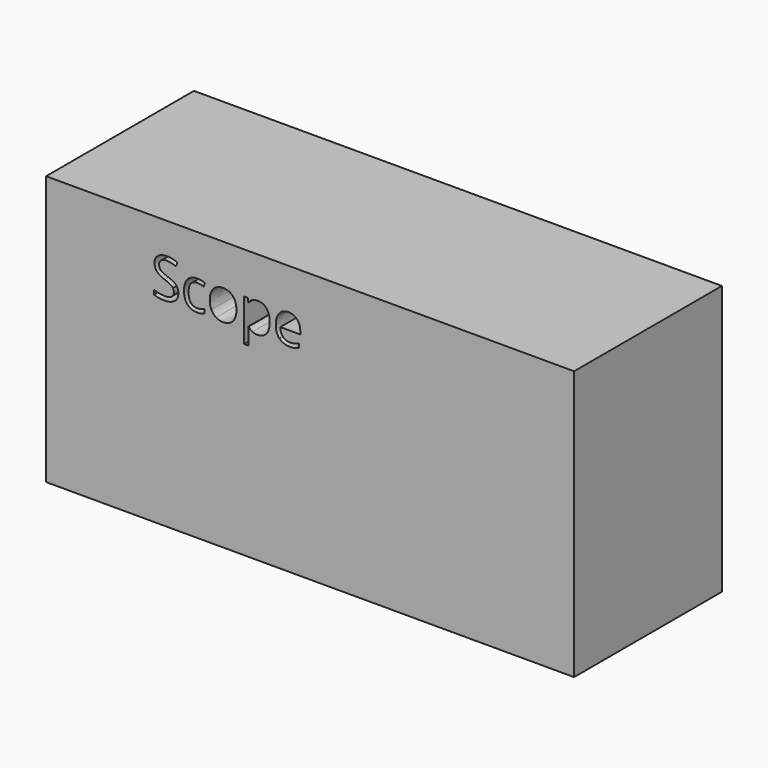
from build123d import *

# Parameters (mm, degrees)
F0_W     = 317.5
F0_H     = 161.925
F1_DEPTH = 111.125


with BuildPart() as f1:
    # F0 (on Front) → F1 (new body)
    with BuildSketch(Plane.XZ):
        with Locations((3.7857389202, 16.0671479534)):
            Rectangle(F0_W, F0_H)
        with BuildLine():
            add(Edge.make_bspline(
                [(-76.786822499, 64.7946904907), (-75.4122655757, 63.2979507297), (-75.4122655757, 60.9153853959)],
                knots=[0, 0, 0, 1, 1, 1], degree=2))
            add(Edge.make_bspline(
                [(-75.4122655757, 60.9153853959), (-75.4122655757, 57.8455416005), (-77.6395568867, 56.1247999705)],
                knots=[0, 0, 0, 1, 1, 1], degree=2))
            add(Edge.make_bspline(
                [(-77.6395568867, 56.1247999705), (-79.8668481976, 54.4040583405), (-83.6850618736, 54.4040583405)],
                knots=[0, 0, 0, 1, 1, 1], degree=2))
            add(Edge.make_bspline(
                [(-83.6850618736, 54.4040583405), (-87.8189145467, 54.4040583405), (-90.0487513335, 55.4731581698)],
                knots=[0, 0, 0, 1, 1, 1], degree=2))
            Line((-90.0487513335, 55.4731581698), (-90.0487513335, 58.0797253726))
            add(Edge.make_bspline(
                [(-90.0487513335, 58.0797253726), (-88.6131029913, 57.4789930876), (-86.9279980224, 57.1277174294)],
                knots=[0, 0, 0, 1, 1, 1], degree=2))
            add(Edge.make_bspline(
                [(-86.9279980224, 57.1277174294), (-85.2428930534, 56.7764417712), (-83.5883337938, 56.7764417712)],
                knots=[0, 0, 0, 1, 1, 1], degree=2))
            add(Edge.make_bspline(
                [(-83.5883337938, 56.7764417712), (-80.8850385112, 56.7764417712), (-79.5155725395, 57.8022685121)],
                knots=[0, 0, 0, 1, 1, 1], degree=2))
            add(Edge.make_bspline(
                [(-79.5155725395, 57.8022685121), (-78.1461065677, 58.8280952531), (-78.1461065677, 60.6608378175)],
                knots=[0, 0, 0, 1, 1, 1], degree=2))
            add(Edge.make_bspline(
                [(-78.1461065677, 60.6608378175), (-78.1461065677, 61.8673933391), (-78.6322924424, 62.6386725017)],
                knots=[0, 0, 0, 1, 1, 1], degree=2))
            add(Edge.make_bspline(
                [(-78.6322924424, 62.6386725017), (-79.1184783172, 63.4099516642), (-80.2563059926, 64.0641389407)],
                knots=[0, 0, 0, 1, 1, 1], degree=2))
            add(Edge.make_bspline(
                [(-80.2563059926, 64.0641389407), (-81.394133668, 64.7183262172), (-83.715607583, 65.5430603712)],
                knots=[0, 0, 0, 1, 1, 1], degree=2))
            add(Edge.make_bspline(
                [(-83.715607583, 65.5430603712), (-86.9585437318, 66.7037973287), (-88.3509189856, 68.2947196936)],
                knots=[0, 0, 0, 1, 1, 1], degree=2))
            add(Edge.make_bspline(
                [(-88.3509189856, 68.2947196936), (-89.7432942394, 69.8856420586), (-89.7432942394, 72.4463906973)],
                knots=[0, 0, 0, 1, 1, 1], degree=2))
            add(Edge.make_bspline(
                [(-89.7432942394, 72.4463906973), (-89.7432942394, 75.1344131251), (-87.7247319427, 76.7253354901)],
                knots=[0, 0, 0, 1, 1, 1], degree=2))
            add(Edge.make_bspline(
                [(-87.7247319427, 76.7253354901), (-85.7061696461, 78.3162578551), (-82.3766873206, 78.3162578551)],
                knots=[0, 0, 0, 1, 1, 1], degree=2))
            add(Edge.make_bspline(
                [(-82.3766873206, 78.3162578551), (-78.9097493029, 78.3162578551), (-75.997725006, 77.0435199631)],
                knots=[0, 0, 0, 1, 1, 1], degree=2))
            Line((-75.997725006, 77.0435199631), (-76.8428229663, 74.6915003387))
            add(Edge.make_bspline(
                [(-76.8428229663, 74.6915003387), (-79.7243015537, 75.8980558603), (-82.442869691, 75.8980558603)],
                knots=[0, 0, 0, 1, 1, 1], degree=2))
            add(Edge.make_bspline(
                [(-82.442869691, 75.8980558603), (-84.5912512527, 75.8980558603), (-85.8003522501, 74.9765936265)],
                knots=[0, 0, 0, 1, 1, 1], degree=2))
            add(Edge.make_bspline(
                [(-85.8003522501, 74.9765936265), (-87.0094532474, 74.0551313927), (-87.0094532474, 72.4158449879)],
                knots=[0, 0, 0, 1, 1, 1], degree=2))
            add(Edge.make_bspline(
                [(-87.0094532474, 72.4158449879), (-87.0094532474, 71.2092894663), (-86.5639949852, 70.4354648279)],
                knots=[0, 0, 0, 1, 1, 1], degree=2))
            add(Edge.make_bspline(
                [(-86.5639949852, 70.4354648279), (-86.1185367231, 69.6616401896), (-85.0596187969, 69.0176348163)],
                knots=[0, 0, 0, 1, 1, 1], degree=2))
            add(Edge.make_bspline(
                [(-85.0596187969, 69.0176348163), (-84.0007008708, 68.3736294429), (-81.8217735997, 67.594713853)],
                knots=[0, 0, 0, 1, 1, 1], degree=2))
            add(Edge.make_bspline(
                [(-81.8217735997, 67.594713853), (-78.1613794224, 66.2914302517), (-76.786822499, 64.7946904907)],
                knots=[0, 0, 0, 1, 1, 1], degree=2))
        make_face(mode=Mode.SUBTRACT)
        with BuildLine():
            add(Edge.make_bspline(
                [(-59.6761342792, 55.3153386712), (-61.422330667, 54.4040583405), (-64.0798073855, 54.4040583405)],
                knots=[0, 0, 0, 1, 1, 1], degree=2))
            add(Edge.make_bspline(
                [(-64.0798073855, 54.4040583405), (-67.867475352, 54.4040583405), (-69.9445835918, 56.7357141587)],
                knots=[0, 0, 0, 1, 1, 1], degree=2))
            add(Edge.make_bspline(
                [(-69.9445835918, 56.7357141587), (-72.0216918315, 59.0673699768), (-72.0216918315, 63.3335873907)],
                knots=[0, 0, 0, 1, 1, 1], degree=2))
            add(Edge.make_bspline(
                [(-72.0216918315, 63.3335873907), (-72.0216918315, 67.7067147875), (-69.9114924066, 70.0943710729)],
                knots=[0, 0, 0, 1, 1, 1], degree=2))
            add(Edge.make_bspline(
                [(-69.9114924066, 70.0943710729), (-67.8012929817, 72.4820273583), (-63.9067150322, 72.4820273583)],
                knots=[0, 0, 0, 1, 1, 1], degree=2))
            add(Edge.make_bspline(
                [(-63.9067150322, 72.4820273583), (-62.6492499949, 72.4820273583), (-61.3917849576, 72.2096614494)],
                knots=[0, 0, 0, 1, 1, 1], degree=2))
            add(Edge.make_bspline(
                [(-61.3917849576, 72.2096614494), (-60.1343199204, 71.9372955405), (-59.4215867008, 71.5707470276)],
                knots=[0, 0, 0, 1, 1, 1], degree=2))
            Line((-59.4215867008, 71.5707470276), (-60.2310480001, 69.3307283377))
            add(Edge.make_bspline(
                [(-60.2310480001, 69.3307283377), (-61.1066916698, 69.6820039959), (-62.1401548381, 69.9110968164)],
                knots=[0, 0, 0, 1, 1, 1], degree=2))
            add(Edge.make_bspline(
                [(-62.1401548381, 69.9110968164), (-63.1736180064, 70.140189637), (-63.967806451, 70.140189637)],
                knots=[0, 0, 0, 1, 1, 1], degree=2))
            add(Edge.make_bspline(
                [(-63.967806451, 70.140189637), (-69.2827598879, 70.140189637), (-69.2827598879, 63.3641331001)],
                knots=[0, 0, 0, 1, 1, 1], degree=2))
            add(Edge.make_bspline(
                [(-69.2827598879, 63.3641331001), (-69.2827598879, 60.1517426607), (-67.9871127139, 58.4335465066)],
                knots=[0, 0, 0, 1, 1, 1], degree=2))
            add(Edge.make_bspline(
                [(-67.9871127139, 58.4335465066), (-66.6914655398, 56.7153503524), (-64.1459897559, 56.7153503524)],
                knots=[0, 0, 0, 1, 1, 1], degree=2))
            add(Edge.make_bspline(
                [(-64.1459897559, 56.7153503524), (-61.9670624848, 56.7153503524), (-59.6761342792, 57.6520854409)],
                knots=[0, 0, 0, 1, 1, 1], degree=2))
            Line((-59.6761342792, 57.6520854409), (-59.6761342792, 55.3153386712))
        make_face(mode=Mode.SUBTRACT)
        with BuildLine():
            add(Edge.make_bspline(
                [(-42.6443558087, 70.046007033), (-40.4883378197, 67.6099867077), (-40.4883378197, 63.4608611799)],
                knots=[0, 0, 0, 1, 1, 1], degree=2))
            add(Edge.make_bspline(
                [(-40.4883378197, 63.4608611799), (-40.4883378197, 59.194643766), (-42.6341739056, 56.7993510533)],
                knots=[0, 0, 0, 1, 1, 1], degree=2))
            add(Edge.make_bspline(
                [(-42.6341739056, 56.7993510533), (-44.7800099915, 54.4040583405), (-48.567677958, 54.4040583405)],
                knots=[0, 0, 0, 1, 1, 1], degree=2))
            add(Edge.make_bspline(
                [(-48.567677958, 54.4040583405), (-50.9095156793, 54.4040583405), (-52.7218944375, 55.5037038792)],
                knots=[0, 0, 0, 1, 1, 1], degree=2))
            add(Edge.make_bspline(
                [(-52.7218944375, 55.5037038792), (-54.5342731956, 56.6033494179), (-55.5219177998, 58.6550028998)],
                knots=[0, 0, 0, 1, 1, 1], degree=2))
            add(Edge.make_bspline(
                [(-55.5219177998, 58.6550028998), (-56.509562404, 60.7066563816), (-56.509562404, 63.4608611799)],
                knots=[0, 0, 0, 1, 1, 1], degree=2))
            add(Edge.make_bspline(
                [(-56.509562404, 63.4608611799), (-56.509562404, 67.7219876422), (-54.376453697, 70.1020075002)],
                knots=[0, 0, 0, 1, 1, 1], degree=2))
            add(Edge.make_bspline(
                [(-54.376453697, 70.1020075002), (-52.2433449901, 72.4820273583), (-48.4556770235, 72.4820273583)],
                knots=[0, 0, 0, 1, 1, 1], degree=2))
            add(Edge.make_bspline(
                [(-48.4556770235, 72.4820273583), (-44.8003737978, 72.4820273583), (-42.6443558087, 70.046007033)],
                knots=[0, 0, 0, 1, 1, 1], degree=2))
        make_face(mode=Mode.SUBTRACT)
        with BuildLine():
            add(Edge.make_bspline(
                [(-22.4180052294, 56.7840781985), (-24.3347484947, 54.4040583405), (-27.7405950936, 54.4040583405)],
                knots=[0, 0, 0, 1, 1, 1], degree=2))
            add(Edge.make_bspline(
                [(-27.7405950936, 54.4040583405), (-29.4460638689, 54.4040583405), (-30.8537119774, 55.0327908592)],
                knots=[0, 0, 0, 1, 1, 1], degree=2))
            add(Edge.make_bspline(
                [(-30.8537119774, 55.0327908592), (-32.261360086, 55.6615233778), (-33.2133680292, 56.9698979308)],
                knots=[0, 0, 0, 1, 1, 1], degree=2))
            Line((-33.2133680292, 56.9698979308), (-33.4068241887, 56.9698979308))
            add(Edge.make_bspline(
                [(-33.4068241887, 56.9698979308), (-33.2133680292, 55.4426124604), (-33.2133680292, 54.0731464886)],
                knots=[0, 0, 0, 1, 1, 1], degree=2))
            Line((-33.2133680292, 54.0731464886), (-33.2133680292, 46.8949047778))
            Line((-33.2133680292, 46.8949047778), (-35.8555718929, 46.8949047778))
            Line((-35.8555718929, 46.8949047778), (-35.8555718929, 72.1612974095))
            Line((-35.8555718929, 72.1612974095), (-33.7071903312, 72.1612974095))
            Line((-33.7071903312, 72.1612974095), (-33.3406418184, 69.7736411241))
            Line((-33.3406418184, 69.7736411241), (-33.2133680292, 69.7736411241))
            add(Edge.make_bspline(
                [(-33.2133680292, 69.7736411241), (-32.1951777156, 71.2092894663), (-30.8435300743, 71.8456584123)],
                knots=[0, 0, 0, 1, 1, 1], degree=2))
            add(Edge.make_bspline(
                [(-30.8435300743, 71.8456584123), (-29.491882433, 72.4820273583), (-27.7405950936, 72.4820273583)],
                knots=[0, 0, 0, 1, 1, 1], degree=2))
            add(Edge.make_bspline(
                [(-27.7405950936, 72.4820273583), (-24.2736570759, 72.4820273583), (-22.38745952, 70.1096439276)],
                knots=[0, 0, 0, 1, 1, 1], degree=2))
            add(Edge.make_bspline(
                [(-22.38745952, 70.1096439276), (-20.501261964, 67.7372604969), (-20.501261964, 63.4608611799)],
                knots=[0, 0, 0, 1, 1, 1], degree=2))
            add(Edge.make_bspline(
                [(-20.501261964, 63.4608611799), (-20.501261964, 59.1640980566), (-22.4180052294, 56.7840781985)],
                knots=[0, 0, 0, 1, 1, 1], degree=2))
        make_face(mode=Mode.SUBTRACT)
        with BuildLine():
            add(Edge.make_bspline(
                [(-5.5084095965, 54.6687878221), (-6.7556927306, 54.4040583405), (-8.5222529247, 54.4040583405)],
                knots=[0, 0, 0, 1, 1, 1], degree=2))
            add(Edge.make_bspline(
                [(-8.5222529247, 54.4040583405), (-12.3862851648, 54.4040583405), (-14.6237583789, 56.7611689165)],
                knots=[0, 0, 0, 1, 1, 1], degree=2))
            add(Edge.make_bspline(
                [(-14.6237583789, 56.7611689165), (-16.861231593, 59.1182794924), (-16.861231593, 63.2979507297)],
                knots=[0, 0, 0, 1, 1, 1], degree=2))
            add(Edge.make_bspline(
                [(-16.861231593, 63.2979507297), (-16.861231593, 67.5183495795), (-14.7841233533, 70.0001884689)],
                knots=[0, 0, 0, 1, 1, 1], degree=2))
            add(Edge.make_bspline(
                [(-14.7841233533, 70.0001884689), (-12.7070151135, 72.4820273583), (-9.2044404348, 72.4820273583)],
                knots=[0, 0, 0, 1, 1, 1], degree=2))
            add(Edge.make_bspline(
                [(-9.2044404348, 72.4820273583), (-5.9309585766, 72.4820273583), (-4.0218517387, 70.3260093692)],
                knots=[0, 0, 0, 1, 1, 1], degree=2))
            add(Edge.make_bspline(
                [(-4.0218517387, 70.3260093692), (-2.1127449007, 68.1699913802), (-2.1127449007, 64.6368709921)],
                knots=[0, 0, 0, 1, 1, 1], degree=2))
            Line((-2.1127449007, 64.6368709921), (-2.1127449007, 62.9670388778))
            Line((-2.1127449007, 62.9670388778), (-14.1222996494, 62.9670388778))
            add(Edge.make_bspline(
                [(-14.1222996494, 62.9670388778), (-14.0408444243, 59.8971950823), (-12.5695594212, 58.3062727174)],
                knots=[0, 0, 0, 1, 1, 1], degree=2))
            add(Edge.make_bspline(
                [(-12.5695594212, 58.3062727174), (-11.0982744181, 56.7153503524), (-8.4255248449, 56.7153503524)],
                knots=[0, 0, 0, 1, 1, 1], degree=2))
            add(Edge.make_bspline(
                [(-8.4255248449, 56.7153503524), (-5.6102286279, 56.7153503524), (-2.8611147812, 57.8913601646)],
                knots=[0, 0, 0, 1, 1, 1], degree=2))
            Line((-2.8611147812, 57.8913601646), (-2.8611147812, 55.5342495886))
            add(Edge.make_bspline(
                [(-2.8611147812, 55.5342495886), (-4.2611264624, 54.9335173036), (-5.5084095965, 54.6687878221)],
                knots=[0, 0, 0, 1, 1, 1], degree=2))
        make_face(mode=Mode.SUBTRACT)
    extrude(amount=F1_DEPTH)


solid = f1.part
